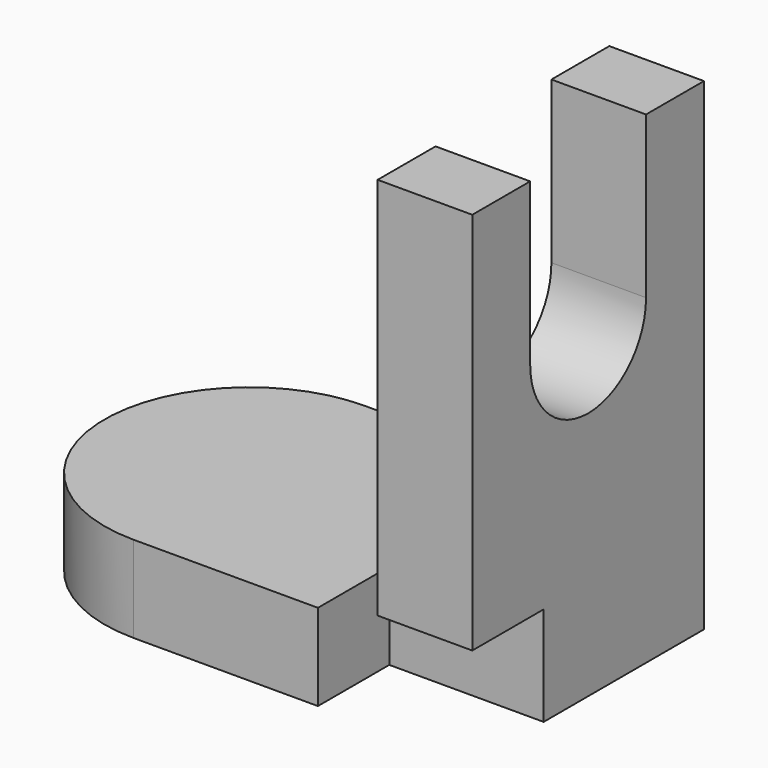
from build123d import *

# Parameters (mm, degrees)
F1_DEPTH = 124.714
F3_DEPTH = 102.362
F5_DEPTH = 25.4
F6_W     = 23.046266
F6_H     = 25.604162
F7_DEPTH = 39.878


with BuildPart() as f1:
    # F0 (on Top) → F1 (new body)
    with BuildSketch(Plane.XY):
        with BuildLine():
            Line((40.64, 29.44091), (-46.874546, 29.44091))
            ThreePointArc((-46.874546, 29.44091), (-84.281819, -7.966364), (-46.874546, -45.373637))
            Line((-46.874546, -45.373637), (40.64, -45.373637))
            Line((40.64, -45.373637), (40.64, 29.44091))
        make_face()
    extrude(amount=F1_DEPTH)

    # F2 (on face) → F3 (cut)
    with BuildSketch(Plane.XY.offset(124.714)):
        with BuildLine():
            Line((16.18675, -45.373637), (16.18675, 29.44091))
            Line((16.18675, 29.44091), (-46.874546, 29.44091))
            ThreePointArc((-46.874546, 29.44091), (-84.281819, -7.966364), (-46.874546, -45.373637))
            Line((-46.874546, -45.373637), (16.18675, -45.373637))
        make_face()
    extrude(amount=-F3_DEPTH, mode=Mode.SUBTRACT)

    # F4 (on face) → F5 (cut)
    with BuildSketch(Plane(origin=(16.18675, 0, 0), x_dir=(0, -1, 0), z_dir=(-1, 0, 0))):
        with BuildLine():
            Line((26.673464, 124.714), (-10.740736, 124.714))
            Line((-10.740736, 124.714), (-10.740736, 83.048187))
            ThreePointArc((-10.740736, 83.048187), (7.966364, 64.341087), (26.673464, 83.048187))
            Line((26.673464, 83.048187), (26.673464, 124.714))
        make_face()
    extrude(amount=-F5_DEPTH, mode=Mode.SUBTRACT)

    # F6 (on face) → F7 (cut)
    with BuildSketch(Plane.YZ.offset(40.64)):
        with Locations((-33.850504, 12.802081)):
            Rectangle(F6_W, F6_H)
    extrude(amount=-F7_DEPTH, mode=Mode.SUBTRACT)


solid = f1.part
